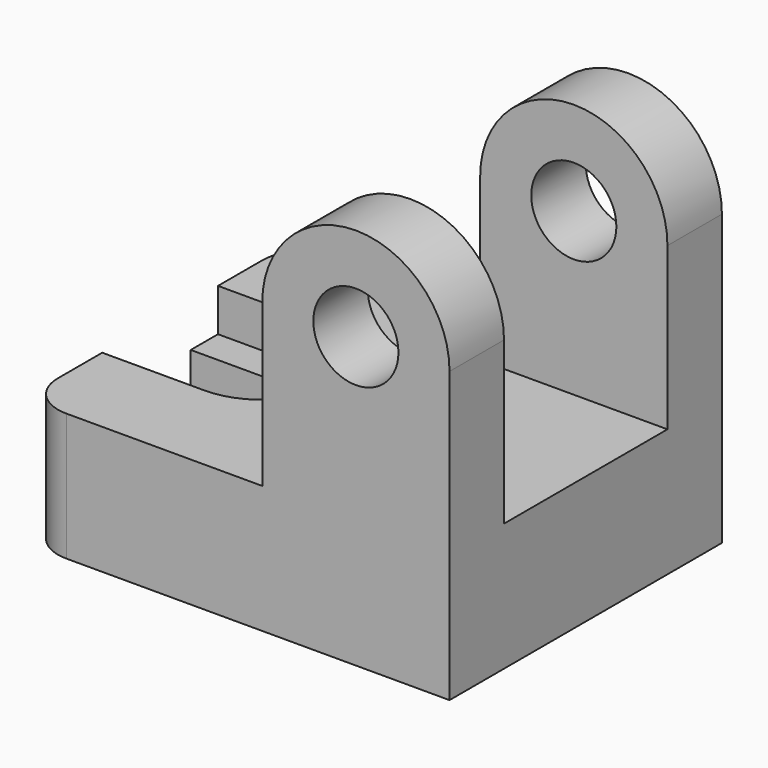
from build123d import *

# Parameters (mm, degrees)
F0_R     = 10
F1_DEPTH = 40
F2_DEPTH = 24
F5_DEPTH = 10
F6_DEPTH = 30.001
F7_R     = 10


with BuildPart() as f1:
    # F0 (on Front) → F1 (new body, symmetric)
    with BuildSketch(Plane.XZ):
        Polygon((0, 30), (0, 0), (100, 0), (100, 30), (56, 30), align=None)
        with BuildLine():
            Line((56, 30), (100, 30))
            Line((100, 30), (100, 68))
            ThreePointArc((100, 68), (78, 90), (56, 68))
            Line((56, 68), (56, 30))
        make_face()
        with Locations((78, 68)):
            Circle(F0_R, mode=Mode.SUBTRACT)
    extrude(amount=F1_DEPTH, both=True)

    # F0 (on Front) → F2 (cut, symmetric)
    with BuildSketch(Plane.XZ):
        with BuildLine():
            Line((56, 30), (100, 30))
            Line((100, 30), (100, 68))
            ThreePointArc((100, 68), (78, 90), (56, 68))
            Line((56, 68), (56, 30))
        make_face()
        with Locations((78, 68)):
            Circle(F0_R, mode=Mode.SUBTRACT)
    extrude(amount=F2_DEPTH, both=True, mode=Mode.SUBTRACT)

    # F4 (on face) → F5 (cut)
    with BuildSketch(Plane.XY.offset(30)):
        with BuildLine():
            Line((0, -17), (24, -17))
            ThreePointArc((24, -17), (41, 0), (24, 17))
            Line((24, 17), (0, 17))
            Line((0, 17), (0, 9))
            Line((0, 9), (24, 9))
            ThreePointArc((24, 9), (33, 0), (24, -9))
            Line((24, -9), (0, -9))
            Line((0, -9), (0, -17))
        make_face()
        with BuildLine():
            Line((0, 9), (0, -9))
            Line((0, -9), (24, -9))
            ThreePointArc((24, -9), (33, 0), (24, 9))
            Line((24, 9), (0, 9))
        make_face()
    extrude(amount=-F5_DEPTH, mode=Mode.SUBTRACT)

    # F4 (on face) → F6 (cut, through all)
    with BuildSketch(Plane.XY.offset(30)):
        with BuildLine():
            Line((0, 9), (0, -9))
            Line((0, -9), (24, -9))
            ThreePointArc((24, -9), (33, 0), (24, 9))
            Line((24, 9), (0, 9))
        make_face()
    extrude(amount=-F6_DEPTH, mode=Mode.SUBTRACT)

    # F7
    f7_edges = [f1.edges().sort_by_distance(p)[0] for p in [
        (0, -40, 15),
        (0, 40, 15),
    ]]
    fillet(f7_edges, radius=F7_R)


solid = f1.part
